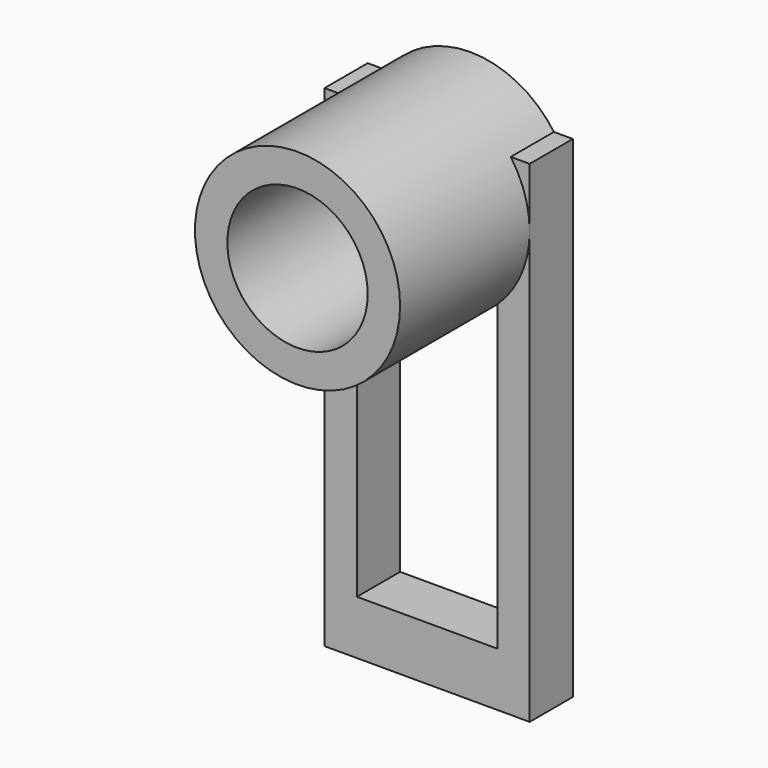
from build123d import *

# Parameters (mm, degrees)
BOX026_W          = 13
BOX026_H          = 5
BOX026_DEPTH      = 45.5
BOX025_W          = 19
BOX025_H          = 5
BOX025_DEPTH      = 45.5
CYLINDER022_R     = 6.5
CYLINDER022_DEPTH = 20
CYLINDER021_R     = 9.5
CYLINDER021_DEPTH = 20


with BuildPart() as cube026:
    # Box026 → Box026 (new body)
    with BuildSketch(Plane(origin=(2, -46, 5), x_dir=(1, 0, 0), z_dir=(0, 0, 1))):
        with Locations((6.5, 2.5)):
            Rectangle(BOX026_W, BOX026_H)
    extrude(amount=BOX026_DEPTH)


with BuildPart() as cut003009002:
    # Box025 → Box025 (new body)
    with BuildSketch(Plane(origin=(-1, -46, 0), x_dir=(1, 0, 0), z_dir=(0, 0, 1))):
        with Locations((9.5, 2.5)):
            Rectangle(BOX025_W, BOX025_H)
    extrude(amount=BOX025_DEPTH)

    # Cut003009002: cut Cube026
    add(cube026.part, mode=Mode.SUBTRACT)


with BuildPart() as cylinder022:
    # Cylinder022 → Cylinder022 (new body)
    with BuildSketch(Plane(origin=(8.5, -41, 40), x_dir=(1, 0, 0), z_dir=(0, -1, 0))):
        Circle(CYLINDER022_R)
    extrude(amount=CYLINDER022_DEPTH)


with BuildPart() as fusion012:
    # Cylinder021 → Cylinder021 (new body)
    with BuildSketch(Plane(origin=(8.5, -41, 40), x_dir=(1, 0, 0), z_dir=(0, -1, 0))):
        Circle(CYLINDER021_R)
    extrude(amount=CYLINDER021_DEPTH)

    # Cut003009003: cut Cylinder022
    add(cylinder022.part, mode=Mode.SUBTRACT)

    # Fusion012: union Cut003009002
    add(cut003009002.part)


solid = fusion012.part
